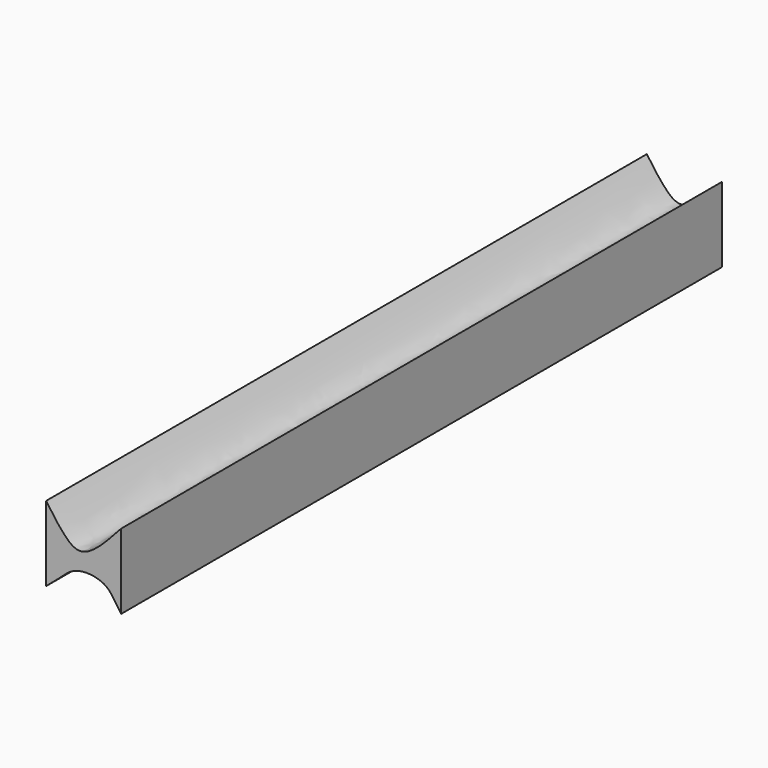
from build123d import *

# Parameters (mm, degrees)
F0_W     = 25.4
F0_H     = 25.4
F1_DEPTH = 254
F3_DEPTH = 254.001


with BuildPart() as f1:
    # F0 (on Front) → F1 (new body)
    with BuildSketch(Plane.XZ):
        with Locations((12.7, -12.7)):
            Rectangle(F0_W, F0_H)
    extrude(amount=F1_DEPTH)

    # F2 (on face) → F3 (cut, through all)
    with BuildSketch(Plane.XZ.offset(254)):
        with BuildLine():
            Line((25.4, 0), (0, 0))
            add(Edge.make_bspline(
                [(0, 0), (1.9660897882, -2.795969444), (5.5508747046, -7.8938795951), (12.7072159782, -14.0085498121), (20.5610983192, -5.3405143517), (25.4, 0)],
                knots=[0, 0, 0, 0, 0.3179978439, 0.579807637, 1, 1, 1, 1], degree=3))
        make_face()
        with BuildLine():
            add(Edge.make_bspline(
                [(0, 0), (-1.4657045527, 4.419352238), (-4.5628558265, 13.7577979618), (11.7355845363, 9.141434553), (32.2572777255, 16.3020923236), (27.5794210169, 5.1812284775), (25.4, 0)],
                knots=[0, 0, 0, 0, 0.2258331511, 0.4772035607, 0.7564282922, 1, 1, 1, 1], degree=3))
            Line((0, 0), (25.4, 0))
        make_face()
        with BuildLine():
            add(Edge.make_bspline(
                [(0, -25.4), (1.6526314662, -24.1177606564), (4.9306013082, -21.1689369359), (10.1142680487, -16.197404109), (21.274958455, -17.4615787646), (23.245212431, -22.5829010437), (25.4, -25.4)],
                knots=[0, 0, 0, 0, 0.0556163702, 0.1133130738, 0.1802348669, 0.2451333681, 0.2451333681, 0.2451333681, 0.2451333681], degree=3))
            Line((0, -25.4), (25.4, -25.4))
        make_face()
        with BuildLine():
            Line((25.4, -25.4), (0, -25.4))
            add(Edge.make_bspline(
                [(25.4, -25.4), (28.2617471105, -29.1413547926), (37.1462743176, -36.7905016796), (33.8292430654, -49.5843514331), (10.7856102799, -52.5034532735), (6.6577060764, -51.40752785), (-3.1212745227, -52.9964293503), (-7.9681064577, -48.3360521643), (-17.2158855052, -48.0957013944), (-18.4132660181, -43.4593458567), (-18.0846405536, -39.7717444145), (-16.063256064, -34.5803624438), (-5.7800283179, -29.385631773), (-1.7435911553, -26.7528129073), (0, -25.4)],
                knots=[0.2451333681, 0.2451333681, 0.2451333681, 0.2451333681, 0.3313242765, 0.3997870811, 0.5004157336, 0.5497455707, 0.614100305, 0.6710006359, 0.733680835, 0.7765317169, 0.8180853176, 0.8678507177, 0.9413225433, 1, 1, 1, 1], degree=3))
        make_face()
    extrude(amount=-F3_DEPTH, mode=Mode.SUBTRACT)


solid = f1.part
